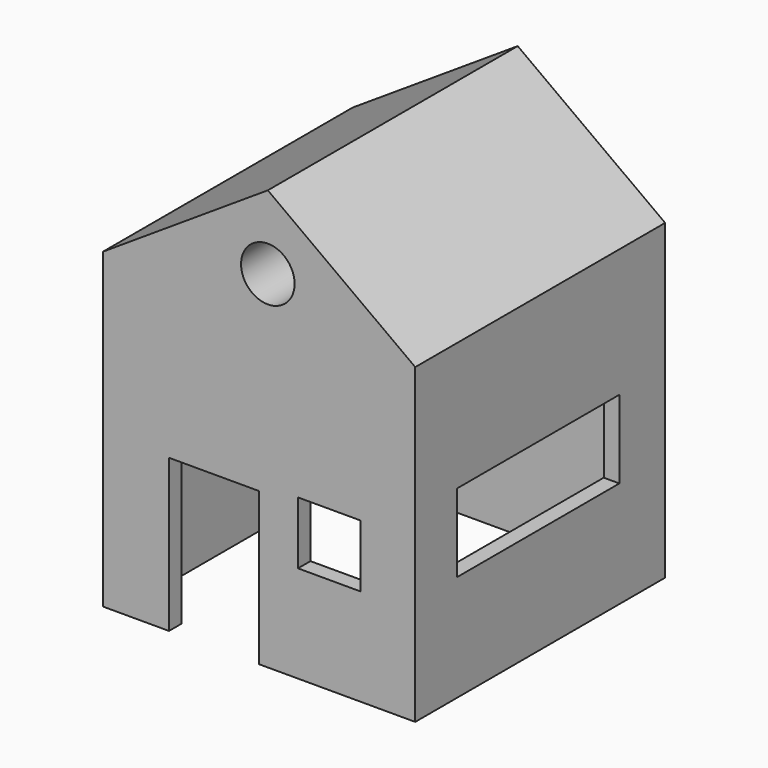
from build123d import *

# Parameters (mm, degrees)
F0_W      = 50.8
F0_H      = 50.8
F1_DEPTH  = 50.8
F2_T      = -2.54
F3_W      = 14.649291
F3_H      = 24.7973
F3_W_2    = 10.16
F3_H_2    = 10.16
F4_DEPTH  = 22.352
F6_DEPTH  = 50.8
F7_W      = 33.02
F7_H      = 12.7
F8_DEPTH  = 84.836
F9_R      = 4.354014
F10_DEPTH = 25.4


with BuildPart() as f1:
    # F0 (on Top) → F1 (new body)
    with BuildSketch(Plane.XY):
        with Locations((-1.426203, 2.702715)):
            Rectangle(F0_W, F0_H)
    extrude(amount=F1_DEPTH)

    # F2
    f2_openings = [f1.faces().sort_by_distance(p)[0] for p in [
        (-1.426203, 2.702715, 0),
    ]]
    offset(amount=F2_T, openings=f2_openings)

    # F3 (on face) → F4 (cut)
    with BuildSketch(Plane.XZ.offset(22.697285)):
        with Locations((-8.750849, 12.39865)):
            Rectangle(F3_W, F3_H)
        with Locations((9.98387, 20.866262)):
            Rectangle(F3_W_2, F3_H_2)
    extrude(amount=-F4_DEPTH, mode=Mode.SUBTRACT)

    # F5 (on face) → F6 (join)
    with BuildSketch(Plane.XZ.offset(22.697285)):
        Polygon((0, 68.315133), (-26.826203, 50.8), (23.973797, 50.8), align=None)
    extrude(amount=-F6_DEPTH)

    # F7 (on face) → F8 (cut)
    with BuildSketch(Plane.YZ.offset(23.973797)):
        with Locations((2.292057, 23.624347)):
            Rectangle(F7_W, F7_H)
    extrude(amount=-F8_DEPTH, mode=Mode.SUBTRACT)

    # F9 (on face) → F10 (cut)
    with BuildSketch(Plane.XZ.offset(22.697285)):
        with Locations((0, 56.335028)):
            Circle(F9_R)
    extrude(amount=-F10_DEPTH, mode=Mode.SUBTRACT)


solid = f1.part
